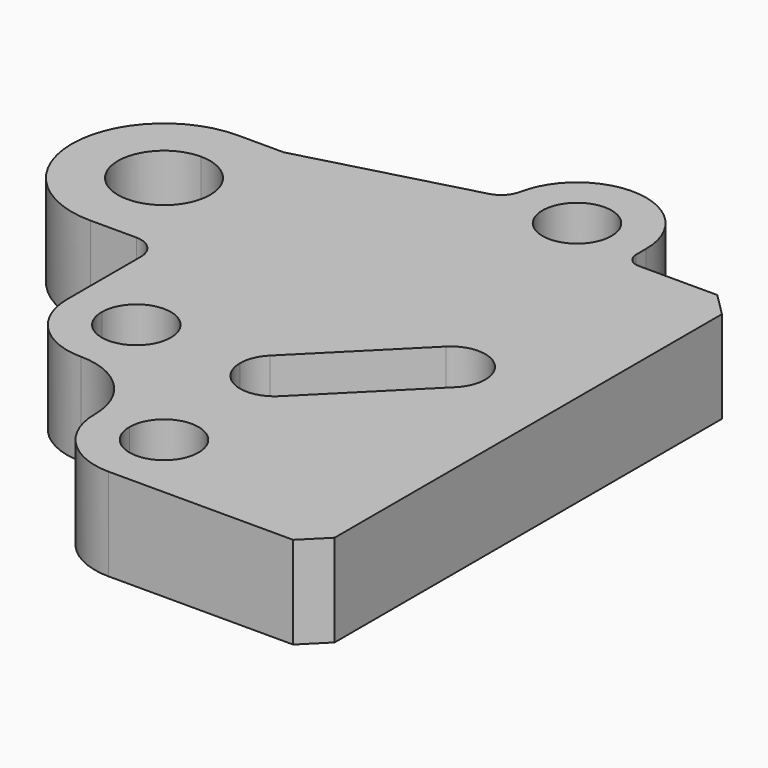
from build123d import *

# Parameters (mm, degrees)
F1_DEPTH = 20
F2_SIZE  = 5
F4_DEPTH = 25


with BuildPart() as f1:
    # F0 (on Top) → F1 (new body)
    with BuildSketch(Plane.XY):
        with BuildLine():
            Line((-45, 0), (0, 0))
            Line((0, 0), (0, 115))
            Line((0, 115), (-22, 115))
            ThreePointArc((-22, 115), (-24.12132, 115.87868), (-25, 118))
            Line((-25, 118), (-25, 120.717968))
            ThreePointArc((-25, 120.717968), (-38.514543, 135.644234), (-54.705789, 123.674277))
            ThreePointArc((-54.705789, 123.674277), (-55.961881, 121.238038), (-58.313624, 119.830085))
            Line((-58.313624, 119.830085), (-95, 110))
            Line((-95, 110), (-105, 110))
            Line((-105, 110), (-105, 100))
            ThreePointArc((-105, 100), (-97.928932, 97.071068), (-95, 90))
            ThreePointArc((-95, 90), (-97.928932, 82.928932), (-105, 80))
            Line((-105, 80), (-105, 70))
            Line((-105, 70), (-95, 70))
            ThreePointArc((-95, 70), (-91.464466, 68.535534), (-90, 65))
            Line((-90, 65), (-90, 45))
            Line((-90, 45), (-82.5, 45))
            ThreePointArc((-82.5, 45), (-75, 52.5), (-67.5, 45))
            ThreePointArc((-67.5, 45), (-69.696699, 39.696699), (-75, 37.5))
            Line((-75, 37.5), (-75, 30))
            ThreePointArc((-75, 30), (-64.393398, 25.606602), (-60, 15))
            Line((-60, 15), (-52.5, 15))
            ThreePointArc((-52.5, 15), (-45, 22.5), (-37.5, 15))
            ThreePointArc((-37.5, 15), (-39.696699, 9.696699), (-45, 7.5))
            Line((-45, 7.5), (-45, 0))
        make_face()
        with BuildLine():
            ThreePointArc((-47.5, 120.717968), (-40, 128.217968), (-32.5, 120.717968))
            ThreePointArc((-32.5, 120.717968), (-40, 113.217968), (-47.5, 120.717968))
        make_face(mode=Mode.SUBTRACT)
        with BuildLine():
            ThreePointArc((-105, 110), (-125, 90), (-105, 70))
            Line((-105, 70), (-105, 80))
            ThreePointArc((-105, 80), (-115, 90), (-105, 100))
            Line((-105, 100), (-105, 110))
        make_face()
        with BuildLine():
            ThreePointArc((-60, 15), (-55.606602, 4.393398), (-45, 0))
            Line((-45, 0), (-45, 7.5))
            ThreePointArc((-45, 7.5), (-50.303301, 9.696699), (-52.5, 15))
            Line((-52.5, 15), (-60, 15))
        make_face()
        with BuildLine():
            ThreePointArc((-90, 45), (-85.606602, 34.393398), (-75, 30))
            Line((-75, 30), (-75, 37.5))
            ThreePointArc((-75, 37.5), (-80.303301, 39.696699), (-82.5, 45))
            Line((-82.5, 45), (-90, 45))
        make_face()
    extrude(amount=F1_DEPTH)

    # F2
    f2_edges = [f1.edges().sort_by_distance(p)[0] for p in [
        (0, 115, 10),
        (0, 0, 10),
    ]]
    chamfer(f2_edges, length=F2_SIZE)

    # F3 (on face) → F4 (cut)
    with BuildSketch(Plane.XY.offset(20)):
        with BuildLine():
            Line((-45, 45), (-45, 37.5))
            ThreePointArc((-45, 37.5), (-42.129874, 38.070904), (-39.696699, 39.696699))
            Line((-39.696699, 39.696699), (-18.483496, 60.909903))
            ThreePointArc((-18.483496, 60.909903), (-18.483496, 71.516504), (-29.090097, 71.516504))
            Line((-29.090097, 71.516504), (-50.303301, 50.303301))
            ThreePointArc((-50.303301, 50.303301), (-51.929096, 47.870126), (-52.5, 45))
            Line((-52.5, 45), (-45, 45))
        make_face()
        with BuildLine():
            ThreePointArc((-52.5, 45), (-50.303301, 39.696699), (-45, 37.5))
            Line((-45, 37.5), (-45, 45))
            Line((-45, 45), (-52.5, 45))
        make_face()
    extrude(amount=-F4_DEPTH, mode=Mode.SUBTRACT)


solid = f1.part
